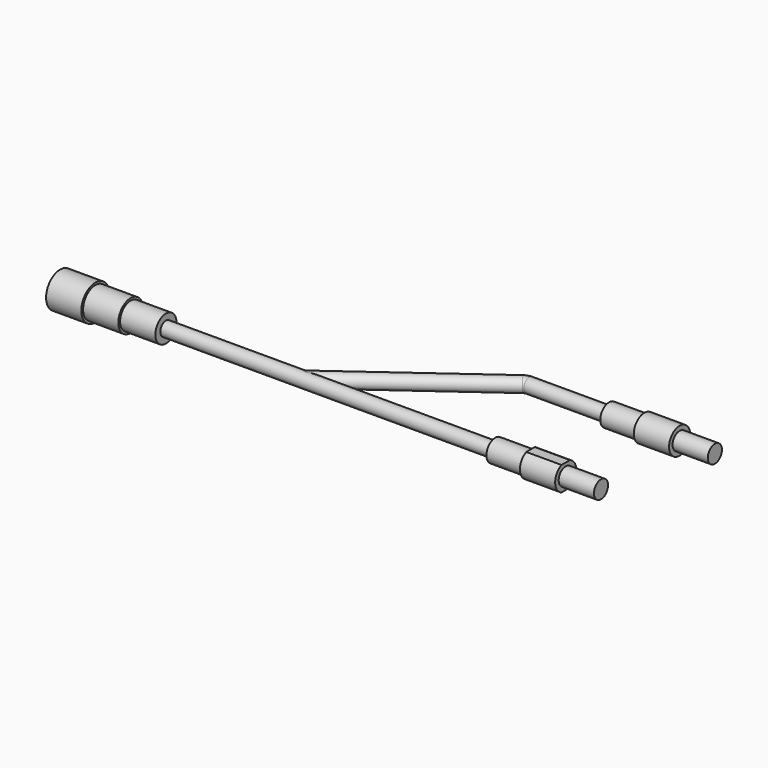
from build123d import *

# Parameters (mm, degrees)
F3_R     = 5.08
F7_W     = 7.62
F7_H     = 0.7951933011
F8_DEPTH = 217.885375


with BuildPart() as f1:
    # F0 (on Top) → F1 (revolve)
    with BuildSketch(Plane.XY):
        Polygon((-19.446875, 0), (-194.865625, 0), (-194.865625, -12.7), (-169.465625, -12.7), (-169.465625, -11.1125), (-144.065625, -11.1125), (-144.065625, -9.525), (-118.665625, -9.525), (-118.665625, -5.08), (118.665625, -5.08), (118.665625, -7.9375), (144.065625, -7.9375), (144.065625, -9.525), (169.465625, -9.525), (169.465625, -6.35), (194.865625, -6.35), (194.865625, 0), align=None)
    revolve(axis=Axis((7.8748166561, 0, 0), (1, 0, 0)))

    # F4: sweep along a path in F0
    with BuildLine(Plane.XY) as f4_path:
        Line((217.884375, 73.81875), (84.2164109554, 73.81875))
        ThreePointArc((84.2164109554, 73.81875), (82.2541135698, 73.5079460533), (80.4839074509, 72.6059591245))
        Line((80.4839074509, 72.6059591245), (-19.446875, 0))
    # F3 (on plane+point) → F4 (sweep)
    with BuildSketch(Plane.YZ.offset(217.884375)):
        with Locations((73.81875, 0)):
            Circle(F3_R)
    sweep(path=f4_path.line)

    # F5 (on Top) → F6 (revolve)
    with BuildSketch(Plane.XY):
        Polygon((141.684375, 73.81875), (217.884375, 73.81875), (217.884375, 80.16875), (192.484375, 80.16875), (192.484375, 83.34375), (167.084375, 83.34375), (167.084375, 81.75625), (141.684375, 81.75625), align=None)
    revolve(axis=Axis((213.4950719774, 73.81875, 0), (1, 0, 0)))

    # F7 (on Right) → F8 (cut, through all)
    with BuildSketch(Plane.YZ):
        with Locations((0, 9.1274033494)):
            Rectangle(F7_W, F7_H)
        with Locations((0, -9.1274033494)):
            Rectangle(F7_W, F7_H)
    extrude(amount=F8_DEPTH, mode=Mode.SUBTRACT)


solid = f1.part
